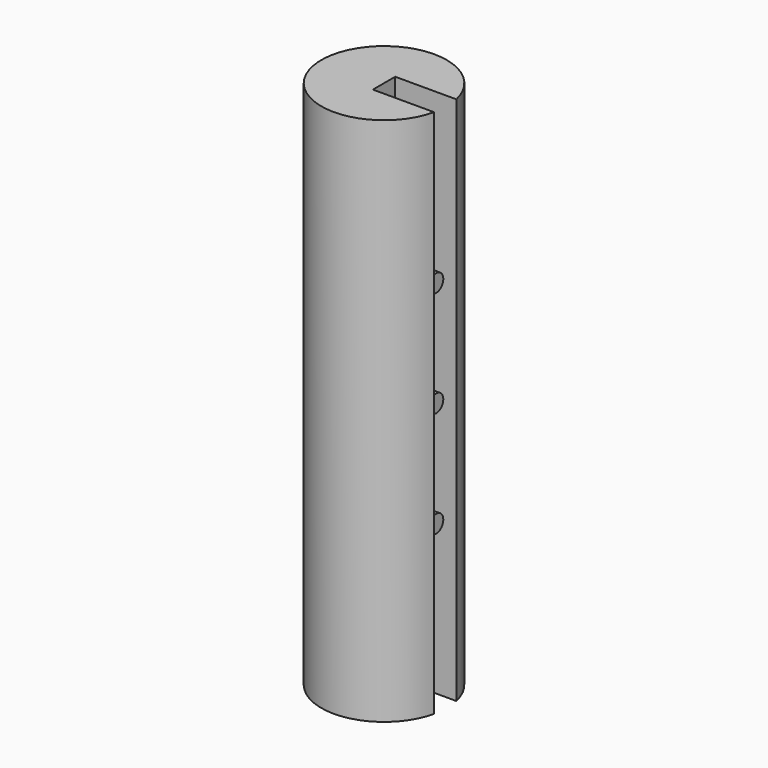
from build123d import *

# Parameters (mm, degrees)
F1_DEPTH = 76
F3_DEPTH = 7.5


with BuildPart() as f1:
    # F0 (on Top) → F1 (new body)
    with BuildSketch(Plane.XY):
        with BuildLine():
            Line((0, 4), (8.774964, 4))
            ThreePointArc((8.774964, 4), (-9, 2), (8.774964, 0))
            Line((8.774964, 0), (0, 0))
            Line((0, 0), (0, 2))
            Line((0, 2), (0, 4))
        make_face()
    extrude(amount=F1_DEPTH)

    # F2 (on face) → F3 (join)
    with BuildSketch(Plane.YZ):
        with BuildLine():
            Line((2, 54.45), (2, 53.2))
            Line((2, 53.2), (2, 51.95))
            ThreePointArc((2, 51.95), (2.883883, 52.316117), (3.25, 53.2))
            ThreePointArc((3.25, 53.2), (2.883883, 54.083883), (2, 54.45))
        make_face()
        with BuildLine():
            Line((2, 51.95), (2, 53.2))
            Line((2, 53.2), (2, 54.45))
            ThreePointArc((2, 54.45), (0.75, 53.2), (2, 51.95))
        make_face()
        with BuildLine():
            ThreePointArc((3.25, 22.8), (2.883883, 23.683883), (2, 24.05))
            Line((2, 24.05), (2, 22.8))
            Line((2, 22.8), (2, 21.55))
            ThreePointArc((2, 21.55), (2.883883, 21.916117), (3.25, 22.8))
        make_face()
        with BuildLine():
            Line((2, 22.8), (2, 24.05))
            ThreePointArc((2, 24.05), (0.75, 22.8), (2, 21.55))
            Line((2, 21.55), (2, 22.8))
        make_face()
        with BuildLine():
            ThreePointArc((3.25, 38), (2.883883, 38.883883), (2, 39.25))
            Line((2, 39.25), (2, 38))
            Line((2, 38), (2, 36.75))
            ThreePointArc((2, 36.75), (2.883883, 37.116117), (3.25, 38))
        make_face()
        with BuildLine():
            Line((2, 38), (2, 39.25))
            ThreePointArc((2, 39.25), (0.75, 38), (2, 36.75))
            Line((2, 36.75), (2, 38))
        make_face()
    extrude(amount=F3_DEPTH)


solid = f1.part
